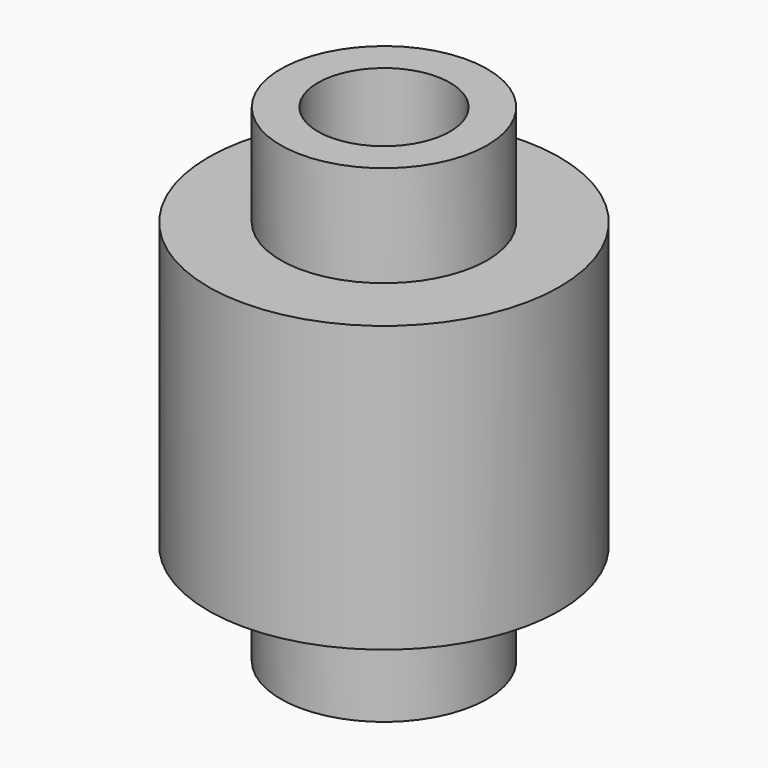
from build123d import *

# Parameters (mm, degrees)
F3_D = 6.4


with BuildPart() as f1:
    # F0 (on Front) → F1 (revolve)
    with BuildSketch(Plane.XZ):
        Polygon((5, 11.8), (0, 11.8), (0, -11.8), (5, -11.8), (5, -6.9), (8.5, -6.9), (8.5, 0), (8.5, 6.9), (5, 6.9), align=None)
    revolve(axis=Axis((0, 0, 0.517052), (0, 0, -1)))

    # F3 (through all)
    with Locations(Plane.XY.offset(11.8)):
        with Locations((0, 0)):
            Hole(F3_D / 2)


solid = f1.part
